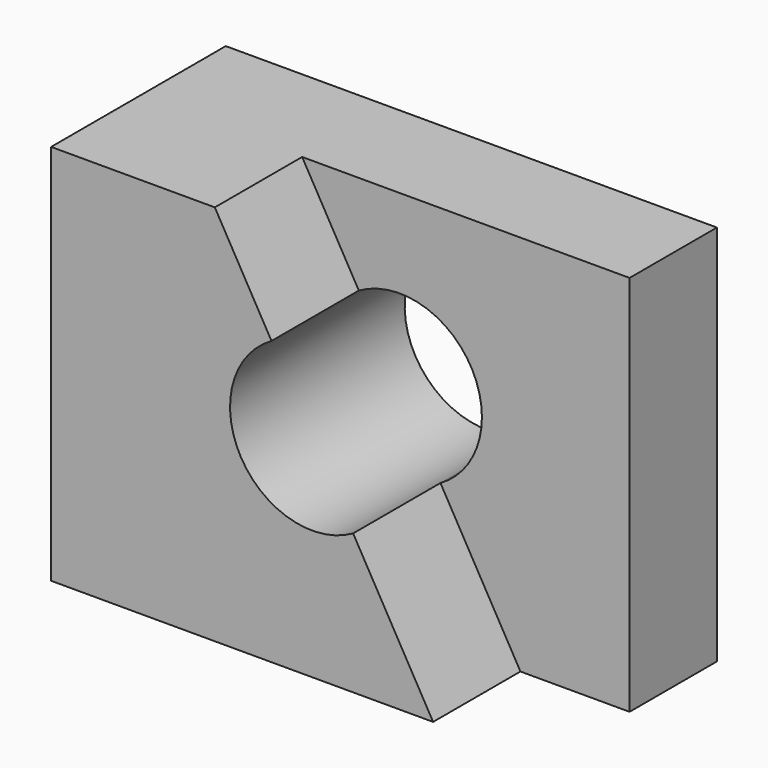
from build123d import *

# Parameters (mm, degrees)
F0_W     = 57.15
F0_H     = 44.45
F1_DEPTH = 25.4
F3_DEPTH = 12.7
F5_DEPTH = 25.4


with BuildPart() as f1:
    # F0 (on Front) → F1 (new body)
    with BuildSketch(Plane.XZ):
        with Locations((28.575, 22.225)):
            Rectangle(F0_W, F0_H)
    extrude(amount=F1_DEPTH)

    # F2 (on face) → F3 (cut)
    with BuildSketch(Plane.XZ.offset(25.4)):
        Polygon((19.05, 44.45), (44.45, 0), (57.15, 0), (57.15, 44.45), align=None)
    extrude(amount=-F3_DEPTH, mode=Mode.SUBTRACT)

    # F4 (on face) → F5 (cut)
    with BuildSketch(Plane.XZ.offset(25.4)):
        with BuildLine():
            ThreePointArc((35.143775, 16.285894), (38.674012, 19.792631), (39.967225, 24.597564))
            ThreePointArc((39.967225, 24.597564), (35.199182, 32.877327), (25.644724, 32.909234))
            Line((25.644724, 32.909234), (35.143775, 16.285894))
        make_face()
        with BuildLine():
            Line((35.143775, 16.285894), (25.644724, 32.909234))
            ThreePointArc((25.644724, 32.909234), (22.082579, 19.848038), (35.143775, 16.285894))
        make_face()
    extrude(amount=-F5_DEPTH, mode=Mode.SUBTRACT)


solid = f1.part
